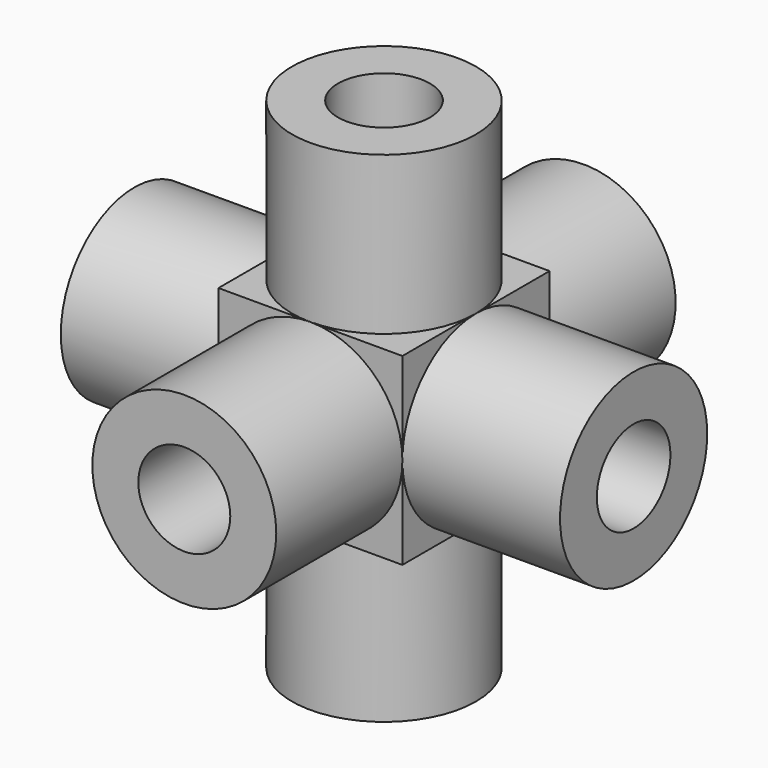
from build123d import *

# Parameters (mm, degrees)
F0_W      = 7
F0_H      = 7
F1_DEPTH  = 3.5
F2_R      = 3.5
F2_R_2    = 1.75
F3_DEPTH  = 6
F4_R      = 3.5
F4_R_2    = 1.75
F5_DEPTH  = 6
F6_R      = 3.5
F6_R_2    = 1.75
F7_DEPTH  = 6
F8_R      = 3.5
F8_R_2    = 1.75
F9_DEPTH  = 6
F10_R     = 3.5
F10_R_2   = 1.75
F11_DEPTH = 6
F12_R     = 3.5
F12_R_2   = 1.75
F13_DEPTH = 6


with BuildPart() as f1:
    # F0 (on Front) → F1 (new body, symmetric)
    with BuildSketch(Plane.XZ):
        Rectangle(F0_W, F0_H)
    extrude(amount=F1_DEPTH, both=True)

    # F2 (on face) → F3 (join)
    with BuildSketch(Plane.XZ.offset(3.5)):
        Circle(F2_R)
        Circle(F2_R_2, mode=Mode.SUBTRACT)
    extrude(amount=F3_DEPTH)

    # F4 (on face) → F5 (join)
    with BuildSketch(Plane(origin=(0, 0, -3.5), x_dir=(1, 0, 0), z_dir=(0, 0, -1))):
        Circle(F4_R)
        Circle(F4_R_2, mode=Mode.SUBTRACT)
    extrude(amount=F5_DEPTH)

    # F6 (on face) → F7 (join)
    with BuildSketch(Plane(origin=(0, 3.5, 0), x_dir=(-1, 0, 0), z_dir=(0, 1, 0))):
        Circle(F6_R)
        Circle(F6_R_2, mode=Mode.SUBTRACT)
    extrude(amount=F7_DEPTH)

    # F8 (on face) → F9 (join)
    with BuildSketch(Plane.XY.offset(3.5)):
        Circle(F8_R)
        Circle(F8_R_2, mode=Mode.SUBTRACT)
    extrude(amount=F9_DEPTH)

    # F10 (on face) → F11 (join)
    with BuildSketch(Plane(origin=(-3.5, 0, 0), x_dir=(0, -1, 0), z_dir=(-1, 0, 0))):
        Circle(F10_R)
        Circle(F10_R_2, mode=Mode.SUBTRACT)
    extrude(amount=F11_DEPTH)

    # F12 (on face) → F13 (join)
    with BuildSketch(Plane.YZ.offset(3.5)):
        Circle(F12_R)
        Circle(F12_R_2, mode=Mode.SUBTRACT)
    extrude(amount=F13_DEPTH)


solid = f1.part
